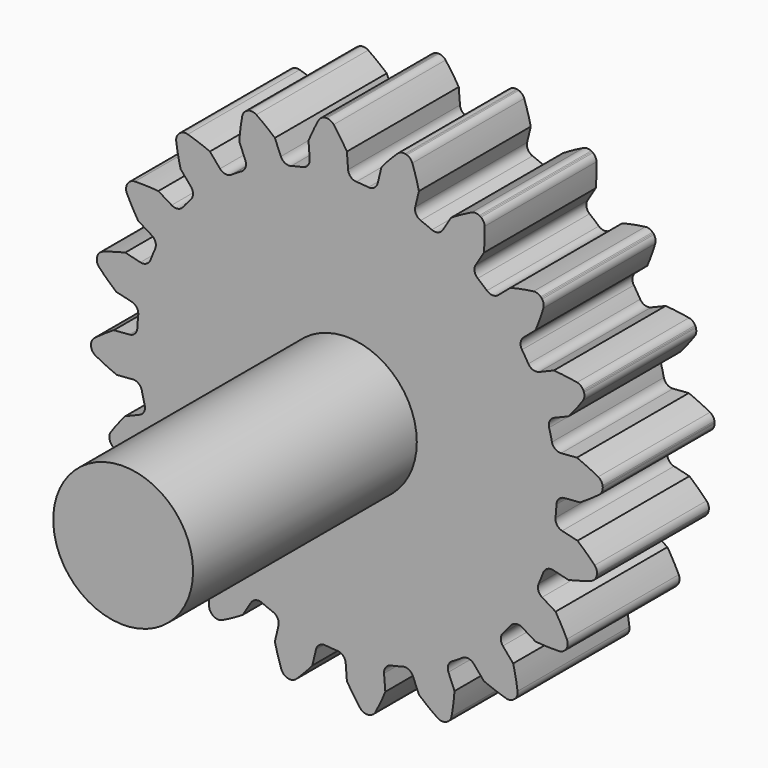
from build123d import *

# Parameters (mm, degrees)
F1_DEPTH = 12.7
F2_R     = 6.35
F3_DEPTH = 25.4


with BuildPart() as f1:
    # F0 (on Front) → F1 (new body)
    with BuildSketch(Plane.XZ):
        with BuildLine():
            ThreePointArc((-3.375022, 19.45809), (-3.528656, 18.925769), (-3.994873, 18.626419))
            ThreePointArc((-3.994873, 18.626419), (-4.530523, 18.503428), (-5.062403, 18.365037))
            ThreePointArc((-5.062403, 18.365037), (-7.369319, 17.56689), (-9.55523, 16.480293))
            ThreePointArc((-9.55523, 16.480293), (-10.026658, 16.197797), (-10.48974, 15.90182))
            ThreePointArc((-10.48974, 15.90182), (-12.437107, 14.429861), (-14.180255, 12.720962))
            ThreePointArc((-14.180255, 12.720962), (-14.541313, 12.306613), (-14.890268, 11.882021))
            ThreePointArc((-14.890268, 11.882021), (-16.287463, 9.880336), (-17.417217, 7.716414))
            ThreePointArc((-17.417217, 7.716414), (-17.632563, 7.210772), (-17.833233, 6.699128))
            ThreePointArc((-17.833233, 6.699128), (-18.54349, 4.363655), (-18.949261, 1.95653))
            ThreePointArc((-18.949261, 1.95653), (-18.997815, 1.40909), (-19.030556, 0.860477))
            ThreePointArc((-19.030556, 0.860477), (-18.98435, -1.580171), (-18.626419, -3.994873))
            ThreePointArc((-18.626419, -3.994873), (-18.503428, -4.530523), (-18.365037, -5.062403))
            ThreePointArc((-18.365037, -5.062403), (-17.56689, -7.369319), (-16.480293, -9.55523))
            ThreePointArc((-16.480293, -9.55523), (-16.197797, -10.026658), (-15.90182, -10.48974))
            ThreePointArc((-15.90182, -10.48974), (-14.429861, -12.437107), (-12.720962, -14.180255))
            ThreePointArc((-12.720962, -14.180255), (-12.306613, -14.541313), (-11.882021, -14.890268))
            ThreePointArc((-11.882021, -14.890268), (-9.880336, -16.287463), (-7.716414, -17.417217))
            ThreePointArc((-7.716414, -17.417217), (-7.210772, -17.632563), (-6.699128, -17.833233))
            ThreePointArc((-6.699128, -17.833233), (-4.363655, -18.54349), (-1.95653, -18.949261))
            ThreePointArc((-1.95653, -18.949261), (-1.40909, -18.997815), (-0.860477, -19.030556))
            ThreePointArc((-0.860477, -19.030556), (1.580171, -18.98435), (3.994873, -18.626419))
            ThreePointArc((3.994873, -18.626419), (4.530523, -18.503428), (5.062403, -18.365037))
            ThreePointArc((5.062403, -18.365037), (7.369319, -17.56689), (9.55523, -16.480293))
            ThreePointArc((9.55523, -16.480293), (10.026658, -16.197797), (10.48974, -15.90182))
            ThreePointArc((10.48974, -15.90182), (12.437107, -14.429861), (14.180255, -12.720962))
            ThreePointArc((14.180255, -12.720962), (14.541313, -12.306613), (14.890268, -11.882021))
            ThreePointArc((14.890268, -11.882021), (16.287463, -9.880336), (17.417217, -7.716414))
            ThreePointArc((17.417217, -7.716414), (17.632563, -7.210772), (17.833233, -6.699128))
            ThreePointArc((17.833233, -6.699128), (18.54349, -4.363655), (18.949261, -1.95653))
            ThreePointArc((18.949261, -1.95653), (18.997815, -1.40909), (19.030556, -0.860477))
            ThreePointArc((19.030556, -0.860477), (19.251169, -0.348631), (19.755374, -0.111071))
            Line((19.755374, -0.111071), (21.166667, 0))
            ThreePointArc((21.166667, 0), (22.064983, 0.574506), (22.929747, 1.198375))
            ThreePointArc((22.929747, 1.198375), (23.157301, 1.474997), (23.238772, 1.8238))
            Line((23.238772, 1.8238), (23.238772, 1.917823))
            Line((23.238772, 1.917823), (23.224063, 2.010689))
            ThreePointArc((23.224063, 2.010689), (23.089031, 2.342452), (22.821005, 2.580071))
            ThreePointArc((22.821005, 2.580071), (21.869293, 3.060981), (20.892164, 3.487886))
            Line((20.892164, 3.487886), (19.45809, 3.375022))
            ThreePointArc((19.45809, 3.375022), (18.925769, 3.528656), (18.626419, 3.994873))
            ThreePointArc((18.626419, 3.994873), (18.503428, 4.530523), (18.365037, 5.062403))
            ThreePointArc((18.365037, 5.062403), (18.416683, 5.617371), (18.8228, 5.999111))
            Line((18.8228, 5.999111), (20.130696, 6.54086))
            ThreePointArc((20.130696, 6.54086), (20.807514, 7.364842), (21.437167, 8.225404))
            ThreePointArc((21.437167, 8.225404), (21.568103, 8.558805), (21.5378, 8.915712))
            Line((21.5378, 8.915712), (21.508745, 9.005134))
            Line((21.508745, 9.005134), (21.46606, 9.088909))
            ThreePointArc((21.46606, 9.088909), (21.235116, 9.362707), (20.90678, 9.505872))
            ThreePointArc((20.90678, 9.505872), (19.853039, 9.669149), (18.791813, 9.773211))
            Line((18.791813, 9.773211), (17.462804, 9.222717))
            ThreePointArc((17.462804, 9.222717), (16.909061, 9.204335), (16.480293, 9.55523))
            ThreePointArc((16.480293, 9.55523), (16.197797, 10.026658), (15.90182, 10.48974))
            ThreePointArc((15.90182, 10.48974), (15.779443, 11.033505), (16.047719, 11.522059))
            Line((16.047719, 11.522059), (17.124193, 12.441455))
            ThreePointArc((17.124193, 12.441455), (17.51326, 13.434257), (17.846168, 14.447273))
            ThreePointArc((17.846168, 14.447273), (17.867668, 14.804818), (17.728559, 15.134892))
            Line((17.728559, 15.134892), (17.673293, 15.210959))
            Line((17.673293, 15.210959), (17.606809, 15.277444))
            ThreePointArc((17.606809, 15.277444), (17.302559, 15.466475), (16.946053, 15.501172))
            ThreePointArc((16.946053, 15.501172), (15.89343, 15.330834), (14.851988, 15.101865))
            Line((14.851988, 15.101865), (13.758137, 14.167628))
            ThreePointArc((13.758137, 14.167628), (13.237177, 13.97903), (12.720962, 14.180255))
            ThreePointArc((12.720962, 14.180255), (12.306613, 14.541313), (11.882021, 14.890268))
            ThreePointArc((11.882021, 14.890268), (11.597601, 15.369603), (11.701776, 15.917147))
            Line((11.701776, 15.917147), (12.441455, 17.124193))
            ThreePointArc((12.441455, 17.124193), (12.504687, 18.188632), (12.508261, 19.254942))
            ThreePointArc((12.508261, 19.254942), (12.418222, 19.601632), (12.183922, 19.872564))
            Line((12.183922, 19.872564), (12.107856, 19.92783))
            Line((12.107856, 19.92783), (12.02408, 19.970515))
            ThreePointArc((12.02408, 19.970515), (11.676308, 20.056277), (11.326529, 19.979109))
            ThreePointArc((11.326529, 19.979109), (10.378063, 19.491829), (9.458347, 18.952244))
            Line((9.458347, 18.952244), (8.706728, 17.725713))
            ThreePointArc((8.706728, 17.725713), (8.269545, 17.38536), (7.716414, 17.417217))
            ThreePointArc((7.716414, 17.417217), (7.210772, 17.632563), (6.699128, 17.833233))
            ThreePointArc((6.699128, 17.833233), (6.280506, 18.201217), (6.210381, 18.754154))
            Line((6.210381, 18.754154), (6.54086, 20.130696))
            ThreePointArc((6.54086, 20.130696), (6.272067, 21.162578), (5.945959, 22.177804))
            ThreePointArc((5.945959, 22.177804), (5.753194, 22.479701), (5.446639, 22.664971))
            Line((5.446639, 22.664971), (5.357217, 22.694025))
            Line((5.357217, 22.694025), (5.264351, 22.708734))
            ThreePointArc((5.264351, 22.708734), (4.907099, 22.682831), (4.598285, 22.501352))
            ThreePointArc((4.598285, 22.501352), (3.846817, 21.744829), (3.138857, 20.947445))
            Line((3.138857, 20.947445), (2.803044, 19.548682))
            ThreePointArc((2.803044, 19.548682), (2.492433, 19.08989), (1.95653, 18.949261))
            ThreePointArc((1.95653, 18.949261), (1.40909, 18.997815), (0.860477, 19.030556))
            ThreePointArc((0.860477, 19.030556), (0.348631, 19.251169), (0.111071, 19.755374))
            Line((0.111071, 19.755374), (0, 21.166667))
            ThreePointArc((0, 21.166667), (-0.574506, 22.064983), (-1.198375, 22.929747))
            ThreePointArc((-1.198375, 22.929747), (-1.474997, 23.157301), (-1.8238, 23.238772))
            Line((-1.8238, 23.238772), (-1.917823, 23.238772))
            Line((-1.917823, 23.238772), (-2.010689, 23.224063))
            ThreePointArc((-2.010689, 23.224063), (-2.342452, 23.089031), (-2.580071, 22.821005))
            ThreePointArc((-2.580071, 22.821005), (-3.060981, 21.869293), (-3.487886, 20.892164))
            Line((-3.487886, 20.892164), (-3.375022, 19.45809))
        make_face()
        with BuildLine():
            ThreePointArc((-9.55523, 16.480293), (-7.369319, 17.56689), (-5.062403, 18.365037))
            ThreePointArc((-5.062403, 18.365037), (-5.617371, 18.416683), (-5.999111, 18.8228))
            Line((-5.999111, 18.8228), (-6.54086, 20.130696))
            ThreePointArc((-6.54086, 20.130696), (-7.364842, 20.807514), (-8.225404, 21.437167))
            ThreePointArc((-8.225404, 21.437167), (-8.558805, 21.568103), (-8.915712, 21.5378))
            Line((-8.915712, 21.5378), (-9.005134, 21.508745))
            Line((-9.005134, 21.508745), (-9.088909, 21.46606))
            ThreePointArc((-9.088909, 21.46606), (-9.362707, 21.235116), (-9.505872, 20.90678))
            ThreePointArc((-9.505872, 20.90678), (-9.669149, 19.853039), (-9.773211, 18.791813))
            Line((-9.773211, 18.791813), (-9.222717, 17.462804))
            ThreePointArc((-9.222717, 17.462804), (-9.204335, 16.909061), (-9.55523, 16.480293))
        make_face()
        with BuildLine():
            ThreePointArc((-14.180255, 12.720962), (-12.437107, 14.429861), (-10.48974, 15.90182))
            ThreePointArc((-10.48974, 15.90182), (-11.033505, 15.779443), (-11.522059, 16.047719))
            Line((-11.522059, 16.047719), (-12.441455, 17.124193))
            ThreePointArc((-12.441455, 17.124193), (-13.434257, 17.51326), (-14.447273, 17.846168))
            ThreePointArc((-14.447273, 17.846168), (-14.804818, 17.867668), (-15.134892, 17.728559))
            Line((-15.134892, 17.728559), (-15.210959, 17.673293))
            Line((-15.210959, 17.673293), (-15.277444, 17.606809))
            ThreePointArc((-15.277444, 17.606809), (-15.466475, 17.302559), (-15.501172, 16.946053))
            ThreePointArc((-15.501172, 16.946053), (-15.330834, 15.89343), (-15.101865, 14.851988))
            Line((-15.101865, 14.851988), (-14.167628, 13.758137))
            ThreePointArc((-14.167628, 13.758137), (-13.97903, 13.237177), (-14.180255, 12.720962))
        make_face()
        with BuildLine():
            ThreePointArc((-17.417217, 7.716414), (-16.287463, 9.880336), (-14.890268, 11.882021))
            ThreePointArc((-14.890268, 11.882021), (-15.369603, 11.597601), (-15.917147, 11.701776))
            Line((-15.917147, 11.701776), (-17.124193, 12.441455))
            ThreePointArc((-17.124193, 12.441455), (-18.188632, 12.504687), (-19.254942, 12.508261))
            ThreePointArc((-19.254942, 12.508261), (-19.601632, 12.418222), (-19.872564, 12.183922))
            Line((-19.872564, 12.183922), (-19.92783, 12.107856))
            Line((-19.92783, 12.107856), (-19.970515, 12.02408))
            ThreePointArc((-19.970515, 12.02408), (-20.056277, 11.676308), (-19.979109, 11.326529))
            ThreePointArc((-19.979109, 11.326529), (-19.491829, 10.378063), (-18.952244, 9.458347))
            Line((-18.952244, 9.458347), (-17.725713, 8.706728))
            ThreePointArc((-17.725713, 8.706728), (-17.38536, 8.269545), (-17.417217, 7.716414))
        make_face()
        with BuildLine():
            ThreePointArc((-18.949261, 1.95653), (-18.54349, 4.363655), (-17.833233, 6.699128))
            ThreePointArc((-17.833233, 6.699128), (-18.201217, 6.280506), (-18.754154, 6.210381))
            Line((-18.754154, 6.210381), (-20.130696, 6.54086))
            ThreePointArc((-20.130696, 6.54086), (-21.162578, 6.272067), (-22.177804, 5.945959))
            ThreePointArc((-22.177804, 5.945959), (-22.479701, 5.753194), (-22.664971, 5.446639))
            Line((-22.664971, 5.446639), (-22.694025, 5.357217))
            Line((-22.694025, 5.357217), (-22.708734, 5.264351))
            ThreePointArc((-22.708734, 5.264351), (-22.682831, 4.907099), (-22.501352, 4.598285))
            ThreePointArc((-22.501352, 4.598285), (-21.744829, 3.846817), (-20.947445, 3.138857))
            Line((-20.947445, 3.138857), (-19.548682, 2.803044))
            ThreePointArc((-19.548682, 2.803044), (-19.08989, 2.492433), (-18.949261, 1.95653))
        make_face()
        with BuildLine():
            ThreePointArc((-18.626419, -3.994873), (-18.98435, -1.580171), (-19.030556, 0.860477))
            ThreePointArc((-19.030556, 0.860477), (-19.251169, 0.348631), (-19.755374, 0.111071))
            Line((-19.755374, 0.111071), (-21.166667, 0))
            ThreePointArc((-21.166667, 0), (-22.064983, -0.574506), (-22.929747, -1.198375))
            ThreePointArc((-22.929747, -1.198375), (-23.157301, -1.474997), (-23.238772, -1.8238))
            Line((-23.238772, -1.8238), (-23.238772, -1.917823))
            Line((-23.238772, -1.917823), (-23.224063, -2.010689))
            ThreePointArc((-23.224063, -2.010689), (-23.089031, -2.342452), (-22.821005, -2.580071))
            ThreePointArc((-22.821005, -2.580071), (-21.869293, -3.060981), (-20.892164, -3.487886))
            Line((-20.892164, -3.487886), (-19.45809, -3.375022))
            ThreePointArc((-19.45809, -3.375022), (-18.925769, -3.528656), (-18.626419, -3.994873))
        make_face()
        with BuildLine():
            ThreePointArc((-16.480293, -9.55523), (-17.56689, -7.369319), (-18.365037, -5.062403))
            ThreePointArc((-18.365037, -5.062403), (-18.416683, -5.617371), (-18.8228, -5.999111))
            Line((-18.8228, -5.999111), (-20.130696, -6.54086))
            ThreePointArc((-20.130696, -6.54086), (-20.807514, -7.364842), (-21.437167, -8.225404))
            ThreePointArc((-21.437167, -8.225404), (-21.568103, -8.558805), (-21.5378, -8.915712))
            Line((-21.5378, -8.915712), (-21.508745, -9.005134))
            Line((-21.508745, -9.005134), (-21.46606, -9.088909))
            ThreePointArc((-21.46606, -9.088909), (-21.235116, -9.362707), (-20.90678, -9.505872))
            ThreePointArc((-20.90678, -9.505872), (-19.853039, -9.669149), (-18.791813, -9.773211))
            Line((-18.791813, -9.773211), (-17.462804, -9.222717))
            ThreePointArc((-17.462804, -9.222717), (-16.909061, -9.204335), (-16.480293, -9.55523))
        make_face()
        with BuildLine():
            ThreePointArc((-12.720962, -14.180255), (-14.429861, -12.437107), (-15.90182, -10.48974))
            ThreePointArc((-15.90182, -10.48974), (-15.779443, -11.033505), (-16.047719, -11.522059))
            Line((-16.047719, -11.522059), (-17.124193, -12.441455))
            ThreePointArc((-17.124193, -12.441455), (-17.51326, -13.434257), (-17.846168, -14.447273))
            ThreePointArc((-17.846168, -14.447273), (-17.867668, -14.804818), (-17.728559, -15.134892))
            Line((-17.728559, -15.134892), (-17.673293, -15.210959))
            Line((-17.673293, -15.210959), (-17.606809, -15.277444))
            ThreePointArc((-17.606809, -15.277444), (-17.302559, -15.466475), (-16.946053, -15.501172))
            ThreePointArc((-16.946053, -15.501172), (-15.89343, -15.330834), (-14.851988, -15.101865))
            Line((-14.851988, -15.101865), (-13.758137, -14.167628))
            ThreePointArc((-13.758137, -14.167628), (-13.237177, -13.97903), (-12.720962, -14.180255))
        make_face()
        with BuildLine():
            ThreePointArc((-7.716414, -17.417217), (-9.880336, -16.287463), (-11.882021, -14.890268))
            ThreePointArc((-11.882021, -14.890268), (-11.597601, -15.369603), (-11.701776, -15.917147))
            Line((-11.701776, -15.917147), (-12.441455, -17.124193))
            ThreePointArc((-12.441455, -17.124193), (-12.504687, -18.188632), (-12.508261, -19.254942))
            ThreePointArc((-12.508261, -19.254942), (-12.418222, -19.601632), (-12.183922, -19.872564))
            Line((-12.183922, -19.872564), (-12.107856, -19.92783))
            Line((-12.107856, -19.92783), (-12.02408, -19.970515))
            ThreePointArc((-12.02408, -19.970515), (-11.676308, -20.056277), (-11.326529, -19.979109))
            ThreePointArc((-11.326529, -19.979109), (-10.378063, -19.491829), (-9.458347, -18.952244))
            Line((-9.458347, -18.952244), (-8.706728, -17.725713))
            ThreePointArc((-8.706728, -17.725713), (-8.269545, -17.38536), (-7.716414, -17.417217))
        make_face()
        with BuildLine():
            ThreePointArc((-1.95653, -18.949261), (-4.363655, -18.54349), (-6.699128, -17.833233))
            ThreePointArc((-6.699128, -17.833233), (-6.280506, -18.201217), (-6.210381, -18.754154))
            Line((-6.210381, -18.754154), (-6.54086, -20.130696))
            ThreePointArc((-6.54086, -20.130696), (-6.272067, -21.162578), (-5.945959, -22.177804))
            ThreePointArc((-5.945959, -22.177804), (-5.753194, -22.479701), (-5.446639, -22.664971))
            Line((-5.446639, -22.664971), (-5.357217, -22.694025))
            Line((-5.357217, -22.694025), (-5.264351, -22.708734))
            ThreePointArc((-5.264351, -22.708734), (-4.907099, -22.682831), (-4.598285, -22.501352))
            ThreePointArc((-4.598285, -22.501352), (-3.846817, -21.744829), (-3.138857, -20.947445))
            Line((-3.138857, -20.947445), (-2.803044, -19.548682))
            ThreePointArc((-2.803044, -19.548682), (-2.492433, -19.08989), (-1.95653, -18.949261))
        make_face()
        with BuildLine():
            ThreePointArc((3.994873, -18.626419), (1.580171, -18.98435), (-0.860477, -19.030556))
            ThreePointArc((-0.860477, -19.030556), (-0.348631, -19.251169), (-0.111071, -19.755374))
            Line((-0.111071, -19.755374), (0, -21.166667))
            ThreePointArc((0, -21.166667), (0.574506, -22.064983), (1.198375, -22.929747))
            ThreePointArc((1.198375, -22.929747), (1.474997, -23.157301), (1.8238, -23.238772))
            Line((1.8238, -23.238772), (1.917823, -23.238772))
            Line((1.917823, -23.238772), (2.010689, -23.224063))
            ThreePointArc((2.010689, -23.224063), (2.342452, -23.089031), (2.580071, -22.821005))
            ThreePointArc((2.580071, -22.821005), (3.060981, -21.869293), (3.487886, -20.892164))
            Line((3.487886, -20.892164), (3.375022, -19.45809))
            ThreePointArc((3.375022, -19.45809), (3.528656, -18.925769), (3.994873, -18.626419))
        make_face()
        with BuildLine():
            ThreePointArc((9.55523, -16.480293), (7.369319, -17.56689), (5.062403, -18.365037))
            ThreePointArc((5.062403, -18.365037), (5.617371, -18.416683), (5.999111, -18.8228))
            Line((5.999111, -18.8228), (6.54086, -20.130696))
            ThreePointArc((6.54086, -20.130696), (7.364842, -20.807514), (8.225404, -21.437167))
            ThreePointArc((8.225404, -21.437167), (8.558805, -21.568103), (8.915712, -21.5378))
            Line((8.915712, -21.5378), (9.005134, -21.508745))
            Line((9.005134, -21.508745), (9.088909, -21.46606))
            ThreePointArc((9.088909, -21.46606), (9.362707, -21.235116), (9.505872, -20.90678))
            ThreePointArc((9.505872, -20.90678), (9.669149, -19.853039), (9.773211, -18.791813))
            Line((9.773211, -18.791813), (9.222717, -17.462804))
            ThreePointArc((9.222717, -17.462804), (9.204335, -16.909061), (9.55523, -16.480293))
        make_face()
        with BuildLine():
            ThreePointArc((14.180255, -12.720962), (12.437107, -14.429861), (10.48974, -15.90182))
            ThreePointArc((10.48974, -15.90182), (11.033505, -15.779443), (11.522059, -16.047719))
            Line((11.522059, -16.047719), (12.441455, -17.124193))
            ThreePointArc((12.441455, -17.124193), (13.434257, -17.51326), (14.447273, -17.846168))
            ThreePointArc((14.447273, -17.846168), (14.804818, -17.867668), (15.134892, -17.728559))
            Line((15.134892, -17.728559), (15.210959, -17.673293))
            Line((15.210959, -17.673293), (15.277444, -17.606809))
            ThreePointArc((15.277444, -17.606809), (15.466475, -17.302559), (15.501172, -16.946053))
            ThreePointArc((15.501172, -16.946053), (15.330834, -15.89343), (15.101865, -14.851988))
            Line((15.101865, -14.851988), (14.167628, -13.758137))
            ThreePointArc((14.167628, -13.758137), (13.97903, -13.237177), (14.180255, -12.720962))
        make_face()
        with BuildLine():
            ThreePointArc((17.417217, -7.716414), (16.287463, -9.880336), (14.890268, -11.882021))
            ThreePointArc((14.890268, -11.882021), (15.369603, -11.597601), (15.917147, -11.701776))
            Line((15.917147, -11.701776), (17.124193, -12.441455))
            ThreePointArc((17.124193, -12.441455), (18.188632, -12.504687), (19.254942, -12.508261))
            ThreePointArc((19.254942, -12.508261), (19.601632, -12.418222), (19.872564, -12.183922))
            Line((19.872564, -12.183922), (19.92783, -12.107856))
            Line((19.92783, -12.107856), (19.970515, -12.02408))
            ThreePointArc((19.970515, -12.02408), (20.056277, -11.676308), (19.979109, -11.326529))
            ThreePointArc((19.979109, -11.326529), (19.491829, -10.378063), (18.952244, -9.458347))
            Line((18.952244, -9.458347), (17.725713, -8.706728))
            ThreePointArc((17.725713, -8.706728), (17.38536, -8.269545), (17.417217, -7.716414))
        make_face()
        with BuildLine():
            ThreePointArc((18.949261, -1.95653), (18.54349, -4.363655), (17.833233, -6.699128))
            ThreePointArc((17.833233, -6.699128), (18.201217, -6.280506), (18.754154, -6.210381))
            Line((18.754154, -6.210381), (20.130696, -6.54086))
            ThreePointArc((20.130696, -6.54086), (21.162578, -6.272067), (22.177804, -5.945959))
            ThreePointArc((22.177804, -5.945959), (22.479701, -5.753194), (22.664971, -5.446639))
            Line((22.664971, -5.446639), (22.694025, -5.357217))
            Line((22.694025, -5.357217), (22.708734, -5.264351))
            ThreePointArc((22.708734, -5.264351), (22.682831, -4.907099), (22.501352, -4.598285))
            ThreePointArc((22.501352, -4.598285), (21.744829, -3.846817), (20.947445, -3.138857))
            Line((20.947445, -3.138857), (19.548682, -2.803044))
            ThreePointArc((19.548682, -2.803044), (19.08989, -2.492433), (18.949261, -1.95653))
        make_face()
    extrude(amount=F1_DEPTH)

    # F2 (on face) → F3 (join)
    with BuildSketch(Plane.XZ.offset(12.7)):
        Circle(F2_R)
    extrude(amount=F3_DEPTH)


solid = f1.part
